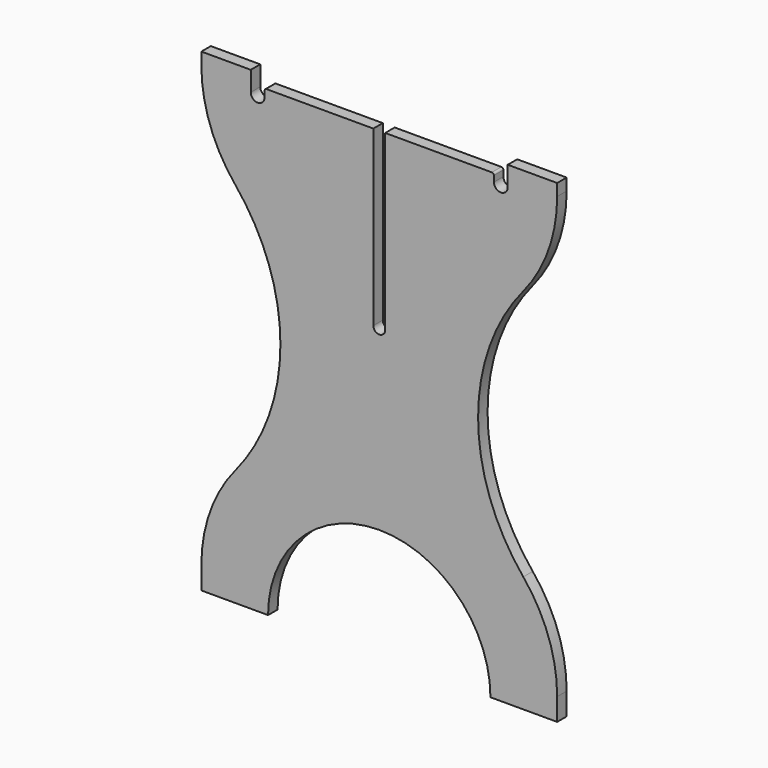
from build123d import *

# Parameters (mm, degrees)
F1_DEPTH = 12


with BuildPart() as f1:
    # F0 (on Front) → F1 (new body)
    with BuildSketch(Plane.XZ):
        with BuildLine():
            Line((-180, -217.421149), (-180, -240))
            Line((-180, -240), (-112.5, -240))
            ThreePointArc((-112.5, -240), (0, -127.5), (112.5, -240))
            Line((112.5, -240), (180, -240))
            Line((180, -240), (180, -217.421149))
            ThreePointArc((180, -217.421149), (171.168592, -166.711894), (145.714286, -121.97376))
            ThreePointArc((145.714286, -121.97376), (100, 5.289425), (145.714286, 132.552611))
            ThreePointArc((145.714286, 132.552611), (171.168592, 177.290745), (180, 228))
            Line((180, 228), (180, 240))
            Line((180, 240), (130, 240))
            Line((130, 240), (130, 228))
            Line((130, 228), (130, 220))
            ThreePointArc((130, 220), (123, 213), (116, 220))
            Line((116, 220), (116, 226))
            ThreePointArc((116, 226), (115.414214, 227.414214), (114, 228))
            Line((114, 228), (6, 228))
            Line((6, 228), (6, 52.5))
            ThreePointArc((6, 52.5), (0, 46.5), (-6, 52.5))
            Line((-6, 52.5), (-6, 228))
            Line((-6, 228), (-113.99243, 228))
            ThreePointArc((-113.99243, 228), (-115.405751, 227.415105), (-115.992428, 226.002523))
            Line((-115.992428, 226.002523), (-116, 220))
            ThreePointArc((-116, 220), (-123, 213), (-130, 220))
            Line((-130, 220), (-130, 228))
            Line((-130, 228), (-130, 240))
            Line((-130, 240), (-180, 240))
            Line((-180, 240), (-180, 228))
            ThreePointArc((-180, 228), (-171.168592, 177.290745), (-145.714286, 132.552611))
            ThreePointArc((-145.714286, 132.552611), (-100, 5.289425), (-145.714286, -121.97376))
            ThreePointArc((-145.714286, -121.97376), (-171.168592, -166.711894), (-180, -217.421149))
        make_face()
    extrude(amount=F1_DEPTH)


solid = f1.part
